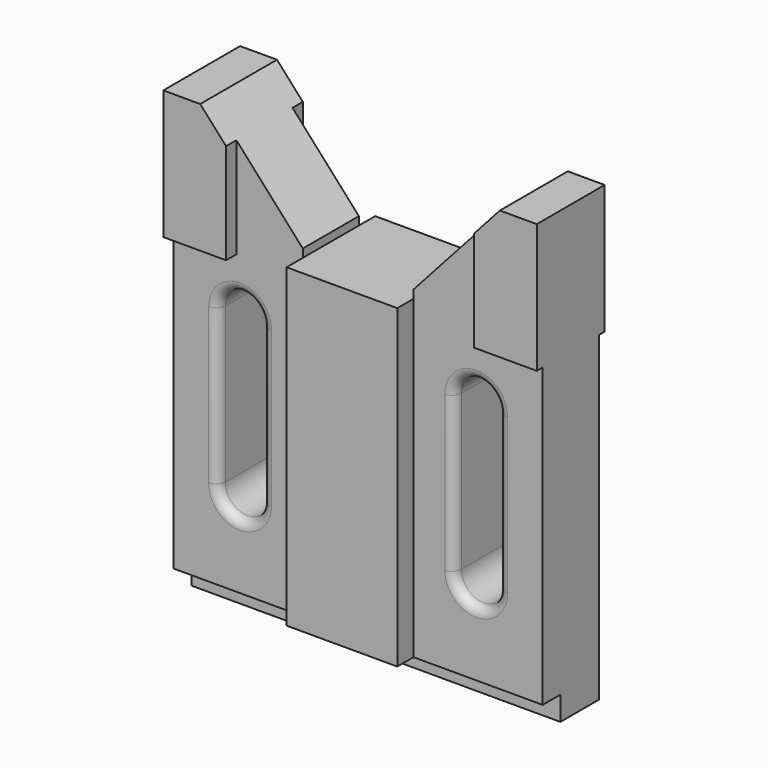
from build123d import *

# Parameters (mm, degrees)
F1_DEPTH  = 15
F3_W      = 11.5
F3_H      = 6.5
F4_DEPTH  = 100
F6_DEPTH  = 5.5
F8_DEPTH  = 3.5
F10_DEPTH = 5.5
F12_DEPTH = 3.5
F14_DEPTH = 25
F15_R     = 2.5
F16_W     = 20.5905072875
F16_H     = 35
F16_W_2   = 2
F17_DEPTH = 17


with BuildPart() as f1:
    # F0 (on Front) → F1 (new body, symmetric)
    with BuildSketch(Plane.XZ):
        Polygon((0, 122), (0, 0), (100, 0), (100, 122), (90, 122), (65, 94.2346871293), (65, 92), (35, 92), (35, 94.2346871293), (10, 122), align=None)
    extrude(amount=F1_DEPTH, both=True)

    # F3 (on face) → F4 (cut)
    with BuildSketch(Plane(origin=(0, 0, 0), x_dir=(0, -1, 0), z_dir=(-1, 0, 0))):
        with Locations((9.25, 3.25)):
            Rectangle(F3_W, F3_H)
    extrude(amount=-F4_DEPTH, mode=Mode.SUBTRACT)

    # F5 (on face) → F6 (cut)
    with BuildSketch(Plane.XZ.offset(15)):
        Polygon((17, 87), (0, 87), (0, 6.5), (35, 6.5), (35, 92), (35, 94.2346871293), (17, 114.2257123962), align=None)
        Polygon((65, 94.2346871293), (65, 92), (65, 6.5), (100, 6.5), (100, 87), (83, 87), (83, 114.2257123962), align=None)
    extrude(amount=-F6_DEPTH, mode=Mode.SUBTRACT)

    # F7 (on face) → F8 (cut)
    with BuildSketch(Plane.XZ.offset(15)):
        Polygon((100, 122), (90, 122), (83, 114.2257123962), (83, 87), (100, 87), align=None)
    extrude(amount=-F8_DEPTH, mode=Mode.SUBTRACT)

    # F9 (on face) → F10 (cut)
    with BuildSketch(Plane(origin=(0, 15, 0), x_dir=(-1, 0, 0), z_dir=(0, 1, 0))):
        Polygon((-17, 87), (-17, 114.2257123962), (-35, 94.2346871293), (-35, 92), (-35, 0), (0, 0), (0, 87), align=None)
        Polygon((-65, 92), (-65, 94.2346871293), (-83, 114.2257123962), (-83, 87), (-100, 87), (-100, 0), (-65, 0), align=None)
    extrude(amount=-F10_DEPTH, mode=Mode.SUBTRACT)

    # F11 (on face) → F12 (cut)
    with BuildSketch(Plane(origin=(0, 15, 0), x_dir=(-1, 0, 0), z_dir=(0, 1, 0))):
        Polygon((-90, 122), (-100, 122), (-100, 87), (-83, 87), (-83, 114.2257123962), align=None)
    extrude(amount=-F12_DEPTH, mode=Mode.SUBTRACT)

    # F13 (on face) → F14 (cut)
    with BuildSketch(Plane.XZ.offset(15)):
        with BuildLine():
            Line((24, 30), (24, 72))
            ThreePointArc((24, 72), (18, 78), (12, 72))
            Line((12, 72), (12, 30))
            ThreePointArc((12, 30), (18, 24), (24, 30))
        make_face()
        with BuildLine():
            ThreePointArc((88, 72), (82, 78), (76, 72))
            Line((76, 72), (76, 30))
            ThreePointArc((76, 30), (82, 24), (88, 30))
            Line((88, 30), (88, 72))
        make_face()
    extrude(amount=-F14_DEPTH, mode=Mode.SUBTRACT)

    # F15
    f15_edges = [f1.edges().sort_by_distance(p)[0] for p in [
        (76, 9.5, 51),
        (24, 9.5, 51),
        (12, -9.5, 51),
        (76, -9.5, 51),
    ]]
    fillet(f15_edges, radius=F15_R)

    # F16 (on face) → F17 (cut)
    with BuildSketch(Plane(origin=(0, 0, 0), x_dir=(0, -1, 0), z_dir=(-1, 0, 0))):
        with Locations((-25.2952536438, 104.5)):
            Rectangle(F16_W, F16_H)
        with Locations((25.2952536438, 104.5)):
            Rectangle(F16_W, F16_H)
        with Locations((-14, 104.5)):
            Rectangle(F16_W_2, F16_H)
        with Locations((14, 104.5)):
            Rectangle(F16_W_2, F16_H)
    extrude(amount=-F17_DEPTH, mode=Mode.SUBTRACT)


solid = f1.part
